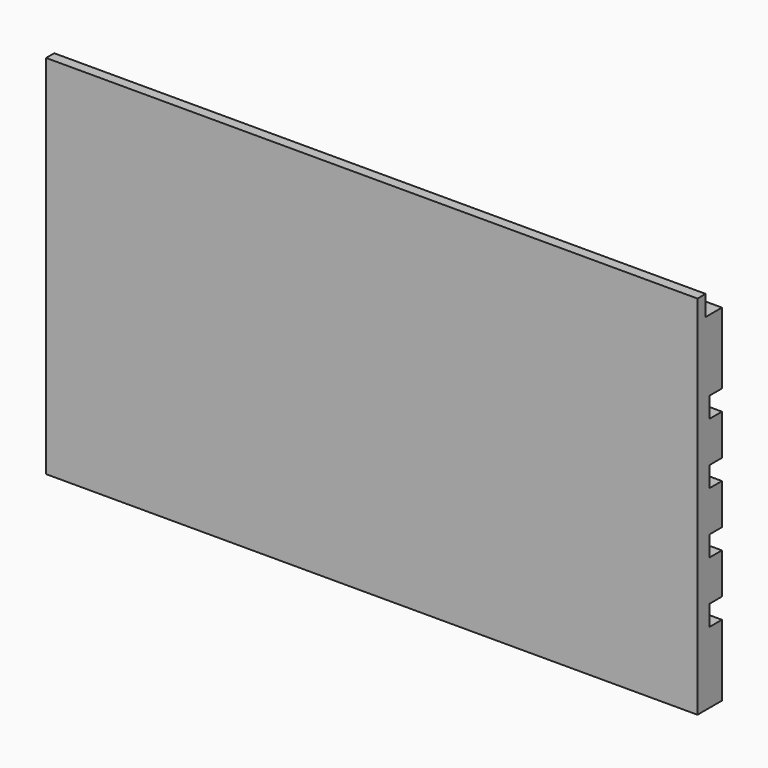
from build123d import *

# Parameters (mm, degrees)
F0_W     = 406.4
F0_H     = 228.6
F1_DEPTH = 19.05
F2_W     = 12.7
F2_H     = 12.7
F3_DEPTH = 406.4
F4_W     = 19.05
F4_H     = 12.7
F5_DEPTH = 9.525


with BuildPart() as f1:
    # F0 (on Front) → F1 (new body)
    with BuildSketch(Plane.XZ):
        Rectangle(F0_W, F0_H)
    extrude(amount=F1_DEPTH)

    # F2 (on face) → F3 (cut, through all)
    with BuildSketch(Plane(origin=(-203.2, 0, 0), x_dir=(0, -1, 0), z_dir=(-1, 0, 0))):
        with Locations((6.35, 107.95)):
            Rectangle(F2_W, F2_H)
    extrude(amount=-F3_DEPTH, mode=Mode.SUBTRACT)

    # F4 (on face) → F5 (cut)
    with BuildSketch(Plane(origin=(0, 0, 0), x_dir=(-1, 0, 0), z_dir=(0, 1, 0))):
        with Locations((-193.675, 50.8)):
            Rectangle(F4_W, F4_H)
        with Locations((-193.675, 12.7)):
            Rectangle(F4_W, F4_H)
        with Locations((-193.675, -25.4)):
            Rectangle(F4_W, F4_H)
        with Locations((-193.675, -63.5)):
            Rectangle(F4_W, F4_H)
        with Locations((193.675, 50.8)):
            Rectangle(F4_W, F4_H)
        with Locations((193.675, 12.7)):
            Rectangle(F4_W, F4_H)
        with Locations((193.675, -25.4)):
            Rectangle(F4_W, F4_H)
        with Locations((193.675, -63.5)):
            Rectangle(F4_W, F4_H)
    extrude(amount=-F5_DEPTH, mode=Mode.SUBTRACT)


solid = f1.part
